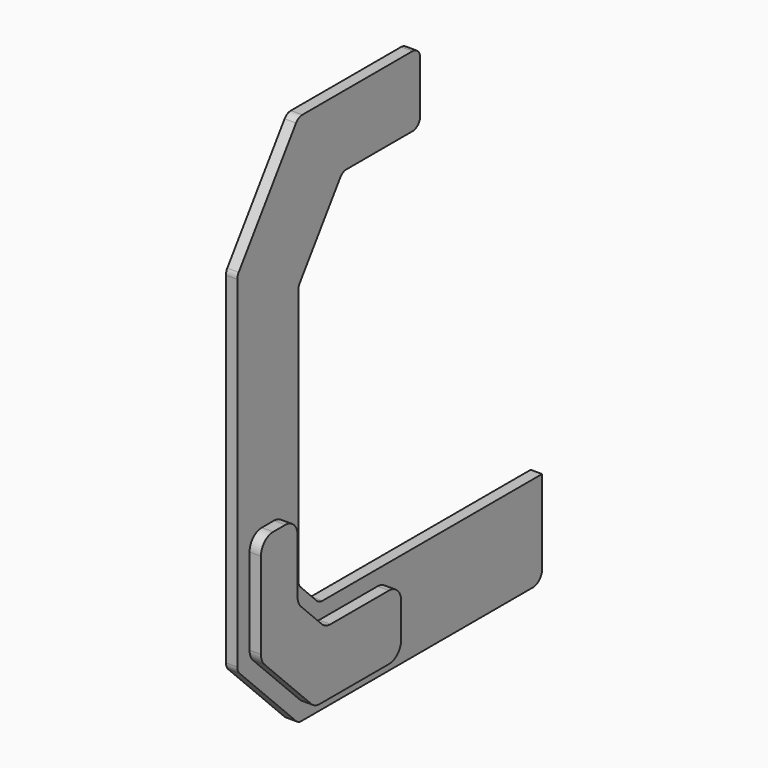
from build123d import *

# Parameters (mm, degrees)
F1_DEPTH = 6
F2_R     = 6
F3_R     = 5
F5_DEPTH = 6
F6_R     = 8


with BuildPart() as f1:
    # F0 (on Right) → F1 (new body)
    with BuildSketch(Plane.YZ):
        Polygon((-160, 0), (0, 0), (0, 50), (-146.36039, 50), (-160, 63.63961), (-160, 201.544894), (-130.972822, 243), (-80, 243), (-80, 280), (-160, 280), (-200, 222.87408), (-200, 40), align=None)
    extrude(amount=F1_DEPTH)

    # F2
    f2_edges = [f1.edges().sort_by_distance(p)[0] for p in [
        (3, 0, 0),
    ]]
    fillet(f2_edges, radius=F2_R)

    # F3
    f3_edges = [f1.edges().sort_by_distance(p)[0] for p in [
        (3, -146.36039, 50),
        (3, -160, 63.63961),
        (3, -130.972822, 243),
        (3, -160, 201.544894),
        (3, -160, 280),
        (3, -200, 222.87408),
        (3, -160, 0),
        (3, -200, 40),
        (3, -80, 280),
        (3, -80, 243),
    ]]
    fillet(f3_edges, radius=F3_R)


with BuildPart() as f5:
    # F4 (on face) → F5 (new body)
    with BuildSketch(Plane.YZ.offset(6)):
        Polygon((-100, 8), (-100, 42), (-149.674098, 42), (-168, 60.325902), (-168, 100), (-192, 100), (-192, 43.313708), (-156.686292, 8), align=None)
    extrude(amount=F5_DEPTH)

    # F6
    f6_edges = [f5.edges().sort_by_distance(p)[0] for p in [
        (9, -168, 100),
        (9, -192, 100),
        (9, -168, 60.325902),
        (9, -149.674098, 42),
        (9, -100, 42),
        (9, -100, 8),
        (9, -156.686292, 8),
        (9, -192, 43.313708),
    ]]
    fillet(f6_edges, radius=F6_R)


solid = Compound([f1.part, f5.part])
